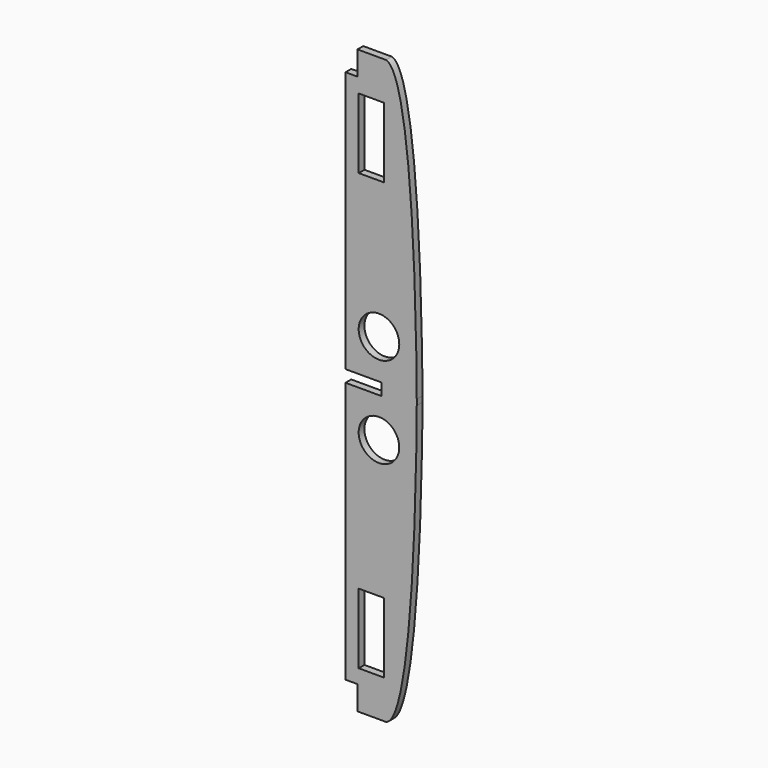
from build123d import *

# Parameters (mm, degrees)
F0_W     = 21.1715102196
F0_H     = 58.4797523916
F0_R     = 16.9272487263
F1_DEPTH = 6


with BuildPart() as f1:
    # F0 (on Front) → F1 (new body)
    with BuildSketch(Plane.XZ):
        with BuildLine():
            Line((203.8914743591, -81.3288328435), (203.8914743591, -80.4375457843))
            Line((203.8914743591, -80.4375457843), (174.4579714171, -80.4375457843))
            Line((174.4579714171, -80.4375457843), (174.4579714171, -85.4375457843))
            Line((174.4579714171, -85.4375457843), (144.4579714171, -85.4375457843))
            Line((144.4579714171, -85.4375457843), (144.4579714171, -303.4375457843))
            Line((144.4579714171, -303.4375457843), (154.4579714171, -303.4375457843))
            Line((154.4579714171, -303.4375457843), (154.4579714171, -323.4375457843))
            Line((154.4579714171, -323.4375457843), (178.2914743591, -323.4375457843))
            add(Edge.make_bspline(
                [(178.2914743591, -323.4375457843), (202.3683447271, -316.6747764881), (203.8304484738, -107.4468228501), (203.8914743591, -82.7989785763)],
                knots=[0, 0, 0, 0, 229.5065578532, 229.5065578532, 229.5065578532, 229.5065578532], degree=3))
            Line((203.8914743591, -82.7989785763), (203.8914743591, -81.3288328435))
        make_face()
        with Locations((166.0767396396, -262.2106793639)):
            Rectangle(F0_W, F0_H, mode=Mode.SUBTRACT)
        with Locations((172.373637557, -118.3564311424)):
            Circle(F0_R, mode=Mode.SUBTRACT)
        with BuildLine():
            add(Edge.make_bspline(
                [(203.8914743591, -78.0761129922), (203.895419842, -79.6696605209), (203.8935088751, -80.4916705159), (203.8914743591, -80.4375457843)],
                knots=[229.5065578531, 229.5065578531, 229.5065578531, 229.5065578531, 244.3447564406, 244.3447564406, 244.3447564406, 244.3447564406], degree=3))
            add(Edge.make_bspline(
                [(178.2914743591, 162.5624542157), (202.3683447271, 155.7996849196), (203.8304484738, -53.4282687183), (203.8914743591, -78.0761129922)],
                knots=[0, 0, 0, 0, 229.5065578531, 229.5065578531, 229.5065578531, 229.5065578531], degree=3))
            Line((178.2914743591, 162.5624542157), (154.4579714171, 162.5624542157))
            Line((154.4579714171, 162.5624542157), (154.4579714171, 142.5624542157))
            Line((154.4579714171, 142.5624542157), (144.4579714171, 142.5624542157))
            Line((144.4579714171, 142.5624542157), (144.4579714171, -75.4375457843))
            Line((144.4579714171, -75.4375457843), (174.4579714171, -75.4375457843))
            Line((174.4579714171, -75.4375457843), (174.4579714171, -80.4375457843))
            Line((174.4579714171, -80.4375457843), (203.8914743591, -80.4375457843))
        make_face()
        with Locations((172.373637557, -42.5186604261)):
            Circle(F0_R, mode=Mode.SUBTRACT)
        with Locations((166.0767396396, 101.3355877954)):
            Rectangle(F0_W, F0_H, mode=Mode.SUBTRACT)
        with BuildLine():
            Line((203.8914743591, -79.546258725), (203.8914743591, -78.0761129922))
            add(Edge.make_bspline(
                [(203.8914743591, -78.0761129922), (203.895419842, -79.6696605209), (203.8935088751, -80.4916705159), (203.8914743591, -80.4375457843)],
                knots=[229.5065578531, 229.5065578531, 229.5065578531, 229.5065578531, 244.3447564406, 244.3447564406, 244.3447564406, 244.3447564406], degree=3))
            Line((203.8914743591, -80.4375457843), (203.8914743591, -79.546258725))
        make_face(mode=Mode.SUBTRACT)
    extrude(amount=F1_DEPTH)


solid = f1.part
